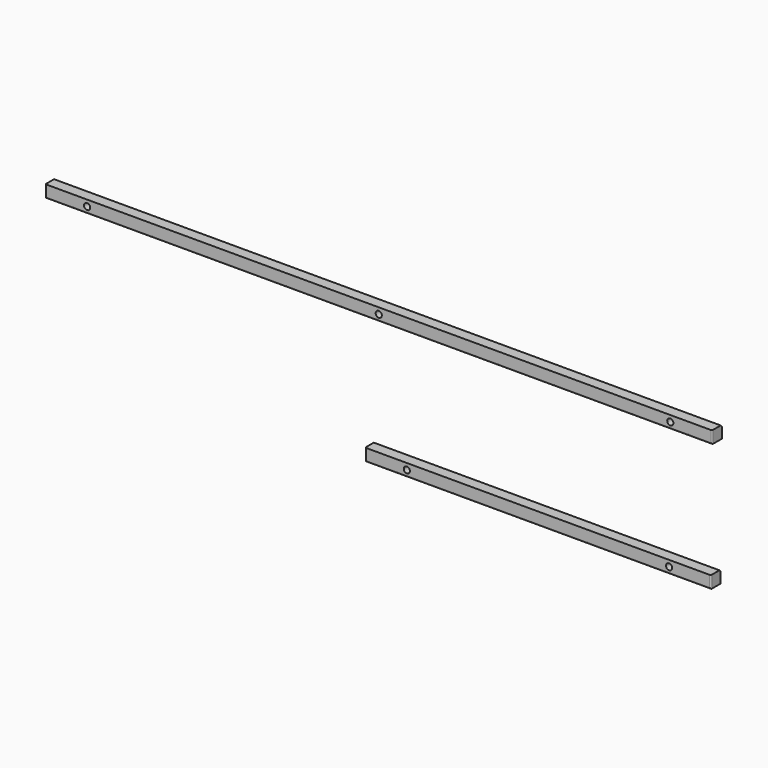
from build123d import *

# Parameters (mm, degrees)
F0_W      = 685.8
F0_H      = 12.7
F0_R      = 3.175
F1_DEPTH  = 12.7
F0_W_2    = 355.6
F0_R_2    = 2.3876
F2_DEPTH  = 6.35
F3_R      = 1.27
F3_2_R    = 1.27
F4_SIZE   = 1.5875
F4_2_SIZE = 1.5875


with BuildPart() as f1:
    # F0 (on Front) → F1 (new body)
    with BuildSketch(Plane.XZ):
        with Locations((-291.5854644343, 23.9154484641)):
            Rectangle(F0_W, F0_H)
        with Locations((-591.6102644343, 23.9154484641)):
            Circle(F0_R, mode=Mode.SUBTRACT)
        with Locations((-291.5854644343, 23.9154484641)):
            Circle(F0_R, mode=Mode.SUBTRACT)
        with Locations((8.3885355657, 23.9154484641)):
            Circle(F0_R, mode=Mode.SUBTRACT)
    extrude(amount=F1_DEPTH)

    # F0 (on Front) → F2 (join)
    with BuildSketch(Plane.XZ):
        with Locations((8.3885355657, 23.9154484641)):
            Circle(F0_R)
        with Locations((8.3885355657, 23.9154484641)):
            Circle(F0_R_2, mode=Mode.SUBTRACT)
        with Locations((-291.5854644343, 23.9154484641)):
            Circle(F0_R)
        with Locations((-291.5854644343, 23.9154484641)):
            Circle(F0_R_2, mode=Mode.SUBTRACT)
        with Locations((-591.6102644343, 23.9154484641)):
            Circle(F0_R)
        with Locations((-591.6102644343, 23.9154484641)):
            Circle(F0_R_2, mode=Mode.SUBTRACT)
    extrude(amount=F2_DEPTH)

    # F3#2
    f3_2_edges = [f1.edges().sort_by_distance(p)[0] for p in [
        (51.314536, -12.7, 23.915448),
        (-634.485464, -12.7, 23.915448),
        (-291.585464, -12.7, 17.565448),
    ]]
    fillet(f3_2_edges, radius=F3_2_R)

    # F4
    f4_edges = [f1.edges().sort_by_distance(p)[0] for p in [
        (-291.585464, 0, 30.265448),
    ]]
    chamfer(f4_edges, length=F4_SIZE)


with BuildPart() as f1b:
    # F0 (on Front) → F1, piece 2 (new body)
    with BuildSketch(Plane.XZ):
        with Locations((-127.7554926395, -107.6907621861)):
            Rectangle(F0_W_2, F0_H)
        with Locations((-262.6802926395, -107.6907590032)):
            Circle(F0_R, mode=Mode.SUBTRACT)
        with Locations((7.1185073605, -107.6907621861)):
            Circle(F0_R, mode=Mode.SUBTRACT)
    extrude(amount=F1_DEPTH)

    # F0 (on Front) → F2, piece 2 (join)
    with BuildSketch(Plane.XZ):
        with Locations((-262.6802926395, -107.6907590032)):
            Circle(F0_R)
        with Locations((-262.6802926395, -107.6907590032)):
            Circle(F0_R_2, mode=Mode.SUBTRACT)
        with Locations((7.1185073605, -107.6907621861)):
            Circle(F0_R)
        with Locations((7.1185073605, -107.6907621861)):
            Circle(F0_R_2, mode=Mode.SUBTRACT)
    extrude(amount=F2_DEPTH)

    # F3
    f3_edges = [f1b.edges().sort_by_distance(p)[0] for p in [
        (-127.755493, -12.7, -114.040762),
        (-305.555493, -12.7, -107.690762),
        (50.044507, -12.7, -107.690762),
    ]]
    fillet(f3_edges, radius=F3_R)

    # F4#2
    f4_2_edges = [f1b.edges().sort_by_distance(p)[0] for p in [
        (-127.755493, 0, -101.340762),
    ]]
    chamfer(f4_2_edges, length=F4_2_SIZE)


solid = Compound([f1.part, f1b.part])
